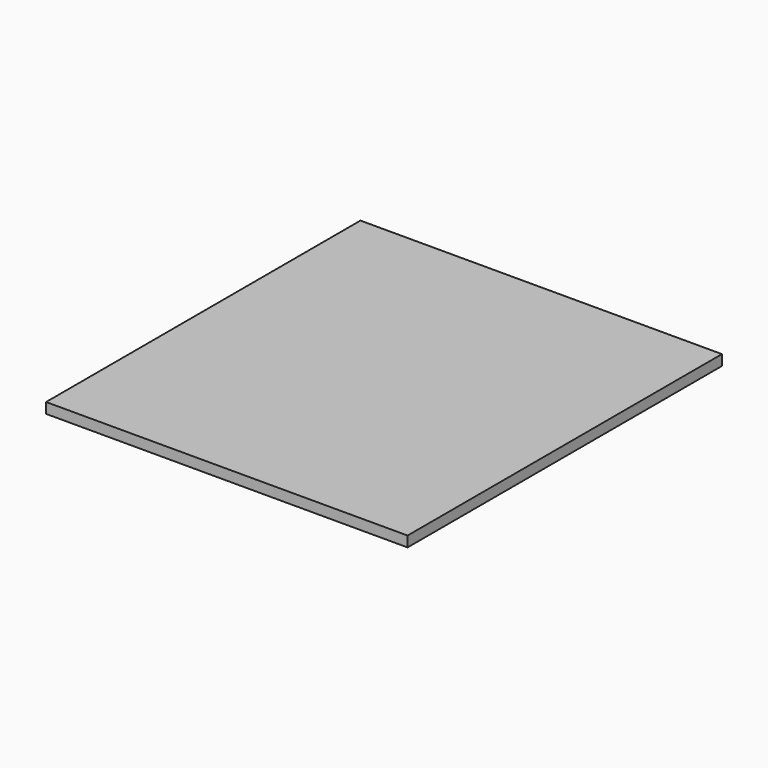
from build123d import *

# Parameters (mm, degrees)
SKETCH_W  = 69
SKETCH_H  = 75
PAD_DEPTH = 2


with BuildPart() as part:
    # Sketch → Pad (new body)
    with BuildSketch(Plane.XY):
        Rectangle(SKETCH_W, SKETCH_H)
    extrude(amount=PAD_DEPTH)


solid = part.part
